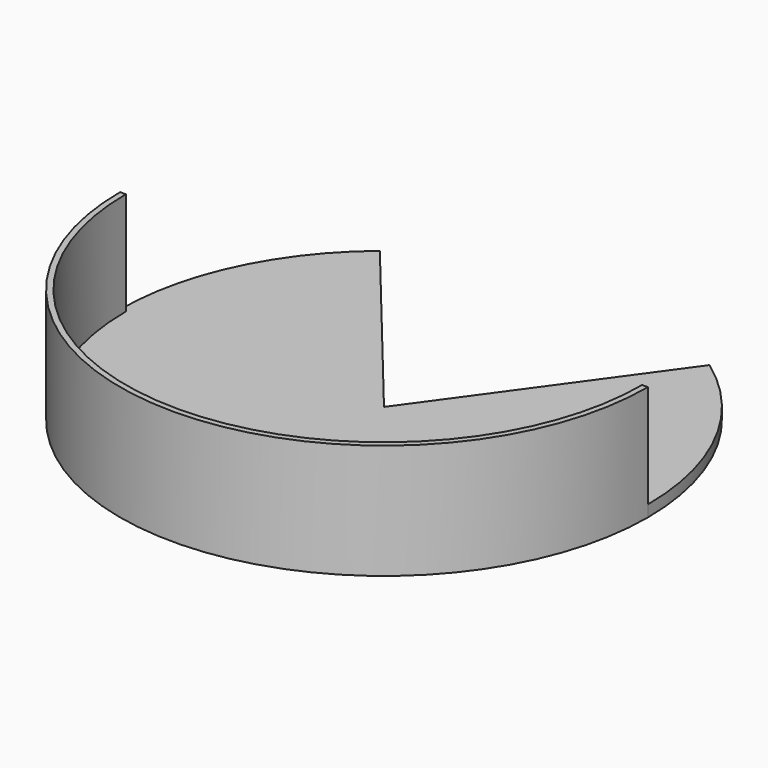
from build123d import *

# Parameters (mm, degrees)
F0_R     = 146.05
F1_DEPTH = 63.5
F2_R     = 142.875
F3_DEPTH = 57.15
F5_DEPTH = 57.15
F7_DEPTH = 63.501


with BuildPart() as f1:
    # F0 (on Top) → F1 (new body)
    with BuildSketch(Plane.XY):
        Circle(F0_R)
    extrude(amount=F1_DEPTH)

    # F2 (on face) → F3 (cut)
    with BuildSketch(Plane.XY.offset(63.5)):
        Circle(F2_R)
    extrude(amount=-F3_DEPTH, mode=Mode.SUBTRACT)

    # F4 (on face) → F5 (cut)
    with BuildSketch(Plane.XY.offset(63.5)):
        with BuildLine():
            Line((142.875, 0), (186.450183, 0))
            Line((186.450183, 0), (186.450183, 147.836223))
            Line((186.450183, 147.836223), (-190.863192, 147.836223))
            Line((-190.863192, 147.836223), (-190.863192, 0))
            Line((-190.863192, 0), (-142.875, 0))
            ThreePointArc((-142.875, 0), (0, 142.875), (142.875, 0))
        make_face()
    extrude(amount=-F5_DEPTH, mode=Mode.SUBTRACT)

    # F6 (on face) → F7 (cut, through all)
    with BuildSketch(Plane.XY.offset(63.5)):
        with BuildLine():
            Line((0, 0), (92.831509, 128.778389))
            ThreePointArc((92.831509, 128.778389), (-4.756055, 152.325769), (-100.68453, 122.736254))
            Line((-100.68453, 122.736254), (0, 0))
        make_face()
    extrude(amount=-F7_DEPTH, mode=Mode.SUBTRACT)


solid = f1.part
